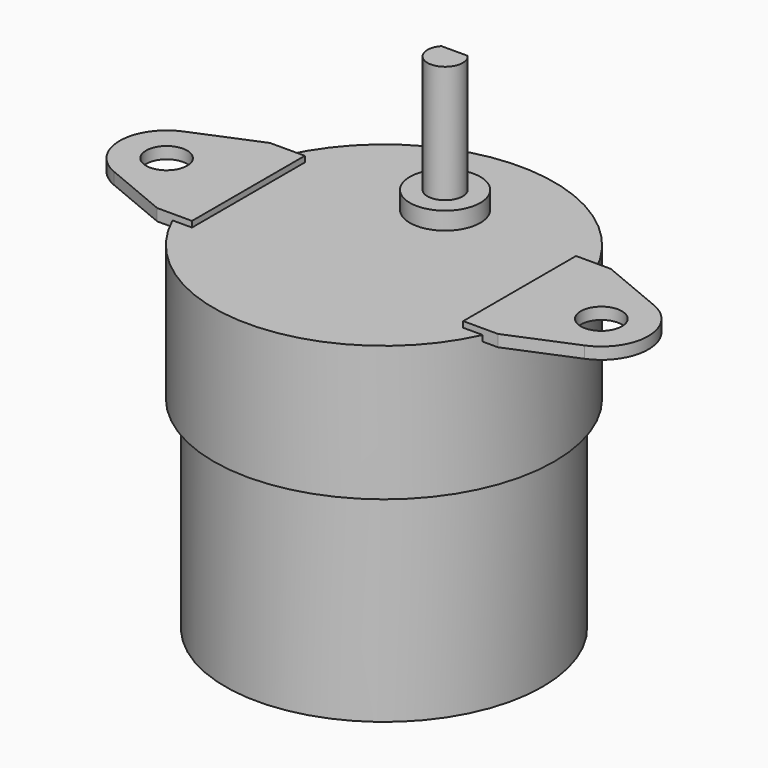
from build123d import *

# Parameters (mm, degrees)
F0_R      = 13.5
F1_DEPTH  = 17.2
F2_R      = 14.5
F3_DEPTH  = 11.5
F4_R      = 1.75
F4_W      = 2.95831
F4_H      = 12
F5_DEPTH  = 0.5
F6_R      = 3
F7_DEPTH  = 1.5
F8_R      = 1.5
F9_DEPTH  = 10
F10_W     = 2.236068
F10_H     = 1.743455
F11_DEPTH = 8


with BuildPart() as f1:
    # F0 (on Top) → F1 (new body)
    with BuildSketch(Plane.XY):
        Circle(F0_R)
    extrude(amount=-F1_DEPTH)

    # F2 (on face) → F3 (join)
    with BuildSketch(Plane.XY):
        Circle(F2_R)
    extrude(amount=F3_DEPTH)

    # F4 (on face) → F5 (join, symmetric)
    with BuildSketch(Plane.XY.offset(11.5)):
        with BuildLine():
            Line((-14.5, -6), (-14.5, 6))
            Line((-14.5, 6), (-20.038462, 3.692308))
            ThreePointArc((-20.038462, 3.692308), (-22.5, 0), (-20.038462, -3.692308))
            Line((-20.038462, -3.692308), (-14.5, -6))
        make_face()
        with Locations((-18.5, 0)):
            Circle(F4_R, mode=Mode.SUBTRACT)
        with Locations((-13.020845, 0)):
            Rectangle(F4_W, F4_H)
        with BuildLine():
            ThreePointArc((20.038462, -3.692308), (22.5, 0), (20.038462, 3.692308))
            Line((20.038462, 3.692308), (14.5, 6))
            Line((14.5, 6), (14.5, -6))
            Line((14.5, -6), (20.038462, -3.692308))
        make_face()
        with Locations((18.5, 0)):
            Circle(F4_R, mode=Mode.SUBTRACT)
        with Locations((13.020845, 0)):
            Rectangle(F4_W, F4_H)
    extrude(amount=F5_DEPTH, both=True)

    # F6 (on face) → F7 (join)
    with BuildSketch(Plane.XY.offset(11.5)):
        with Locations((0, 6.5)):
            Circle(F6_R)
    extrude(amount=F7_DEPTH)

    # F8 (on face) → F9 (join)
    with BuildSketch(Plane.XY.offset(13)):
        with Locations((0, 6.5)):
            Circle(F8_R)
    extrude(amount=F9_DEPTH)

    # F10 (on face) → F11 (cut)
    with BuildSketch(Plane.XY.offset(23)):
        with Locations((0, 8.371727)):
            Rectangle(F10_W, F10_H)
    extrude(amount=-F11_DEPTH, mode=Mode.SUBTRACT)


solid = f1.part
